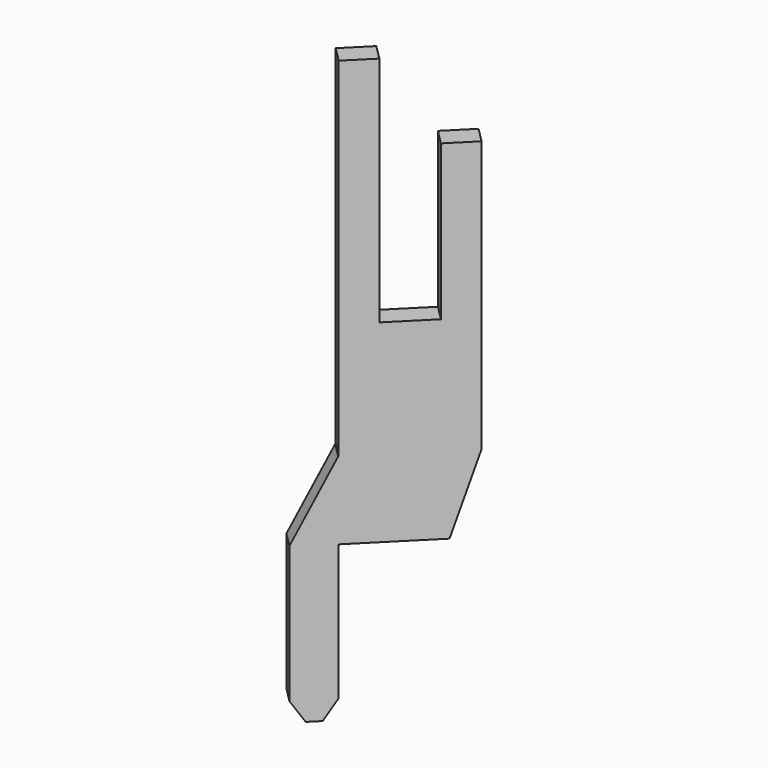
from build123d import *

# Parameters (mm, degrees)
BOX108_W                = 2.9
BOX108_H                = 0.55
BOX108_DEPTH            = 15
BOX109_W                = 1.25
BOX109_H                = 0.55
BOX109_DEPTH            = 6
BOX110_W                = 1.1
BOX110_H                = 0.6
BOX110_DEPTH            = 2
BOX112_W                = 1
BOX112_H                = 0.55
BOX112_DEPTH            = 6
BOX111_W                = 3
BOX111_H                = 0.55
BOX111_DEPTH            = 4
CHAMFER054_SIZE2        = 0.65
CHAMFER054_SIZE         = 2
CHAMFER055_ANGLE        = 33
CHAMFER055_SIZE         = 0.5
CHAMFER057_ANGLE        = 56
CHAMFER057_SIZE         = 0.33
CHAMFER056_ANGLE        = 26.565
CHAMFER056_SIZE         = 1.98
BODY036_PLACEMENT_ANGLE = 45


with BuildPart() as part:
    # Box108 → Box108 (join)
    with BuildSketch(Plane(origin=(-4.95, -0.275, 0), x_dir=(1, 0, 0), z_dir=(0, 0, 1))):
        with Locations((1.45, 0.275)):
            Rectangle(BOX108_W, BOX108_H)
    extrude(amount=BOX108_DEPTH)

    # Box109 → Box109 (cut)
    with BuildSketch(Plane(origin=(-4.125, -0.275, 9), x_dir=(1, 0, 0), z_dir=(0, 0, 1))):
        with Locations((0.625, 0.275)):
            Rectangle(BOX109_W, BOX109_H)
    extrude(amount=BOX109_DEPTH, mode=Mode.SUBTRACT)

    # Box110 → Box110 (cut)
    with BuildSketch(Plane(origin=(-3, -0.3, 13), x_dir=(1, 0, 0), z_dir=(0, 0, 1))):
        with Locations((0.55, 0.3)):
            Rectangle(BOX110_W, BOX110_H)
    extrude(amount=BOX110_DEPTH, mode=Mode.SUBTRACT)

    # Box112 → Box112 (join)
    with BuildSketch(Plane(origin=(-5.95, -0.275, 0), x_dir=(1, 0, 0), z_dir=(0, 0, 1))):
        with Locations((0.5, 0.275)):
            Rectangle(BOX112_W, BOX112_H)
    extrude(amount=BOX112_DEPTH)

    # Box111 → Box111 (cut)
    with BuildSketch(Plane(origin=(-4.95, 0.275, 4), x_dir=(1, 0, 0), z_dir=(0, 0, -1))):
        with Locations((1.5, 0.275)):
            Rectangle(BOX111_W, BOX111_H)
    extrude(amount=BOX111_DEPTH, mode=Mode.SUBTRACT)

    # Chamfer054
    chamfer054_edges = [part.edges().sort_by_distance(p)[0] for p in [
        (-2.05, 0, 4),
    ]]
    chamfer054_side = part.faces().sort_by_distance((-2.05, 0, 8.5))[0]
    chamfer(chamfer054_edges, length=CHAMFER054_SIZE, length2=CHAMFER054_SIZE2, reference=chamfer054_side)

    # Chamfer055
    chamfer055_edges = [part.edges().sort_by_distance(p)[0] for p in [
        (-4.95, 0, 0),
    ]]
    chamfer055_side = part.faces().sort_by_distance((-4.95, 0, 2))[0]
    chamfer(chamfer055_edges, length=CHAMFER055_SIZE, angle=CHAMFER055_ANGLE, reference=chamfer055_side)

    # Chamfer057
    chamfer057_edges = [part.edges().sort_by_distance(p)[0] for p in [
        (-5.95, 0, 0),
    ]]
    chamfer057_side = part.faces().sort_by_distance((-5.612352, 0, 0))[0]
    chamfer(chamfer057_edges, length=CHAMFER057_SIZE, angle=CHAMFER057_ANGLE, reference=chamfer057_side)

    # Chamfer056
    chamfer056_edges = [part.edges().sort_by_distance(p)[0] for p in [
        (-5.95, 0, 6),
    ]]
    chamfer056_side = part.faces().sort_by_distance((-5.95, 0, 3.244623))[0]
    chamfer(chamfer056_edges, length=CHAMFER056_SIZE, angle=CHAMFER056_ANGLE, reference=chamfer056_side)


with BuildPart() as part_1:
    # Body036 placement: moved
    add(part.part.moved(Location((0, 0, -4))).rotate(Axis((0, 0, -4), (0, 0, 1)), BODY036_PLACEMENT_ANGLE))


solid = part_1.part
